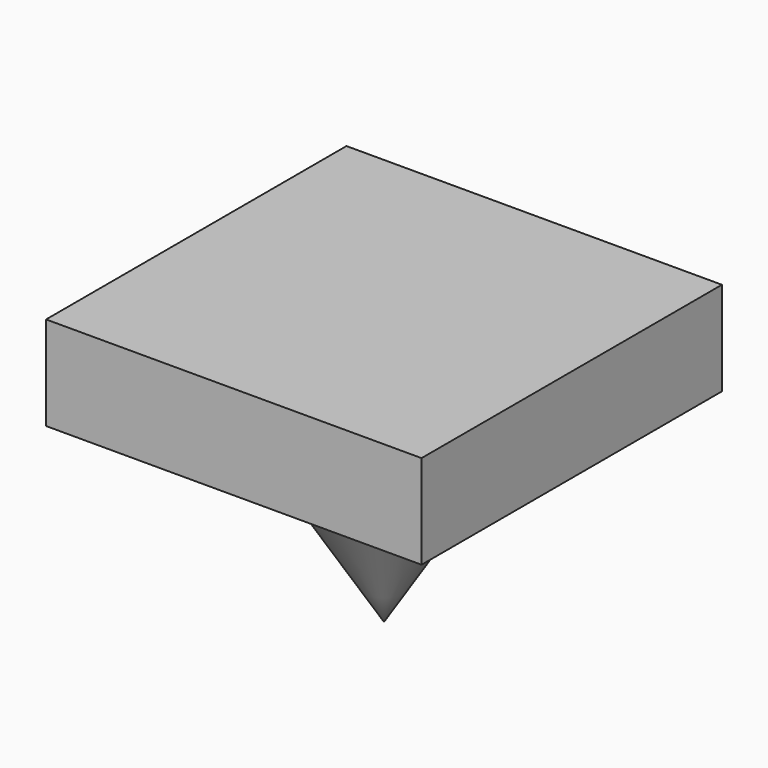
from build123d import *

# Parameters (mm, degrees)
F0_W     = 80
F0_H     = 80
F1_DEPTH = 20


with BuildPart() as f1:
    # F0 (on Top) → F1 (new body)
    with BuildSketch(Plane.XY):
        Rectangle(F0_W, F0_H)
    extrude(amount=F1_DEPTH)

    # F2 (on Front) → F3 (revolve)
    with BuildSketch(Plane.XZ):
        Polygon((25, 0), (0, 0), (0, -40), align=None)
    revolve(axis=Axis((0, 0, -20), (0, 0, -1)))


solid = f1.part
